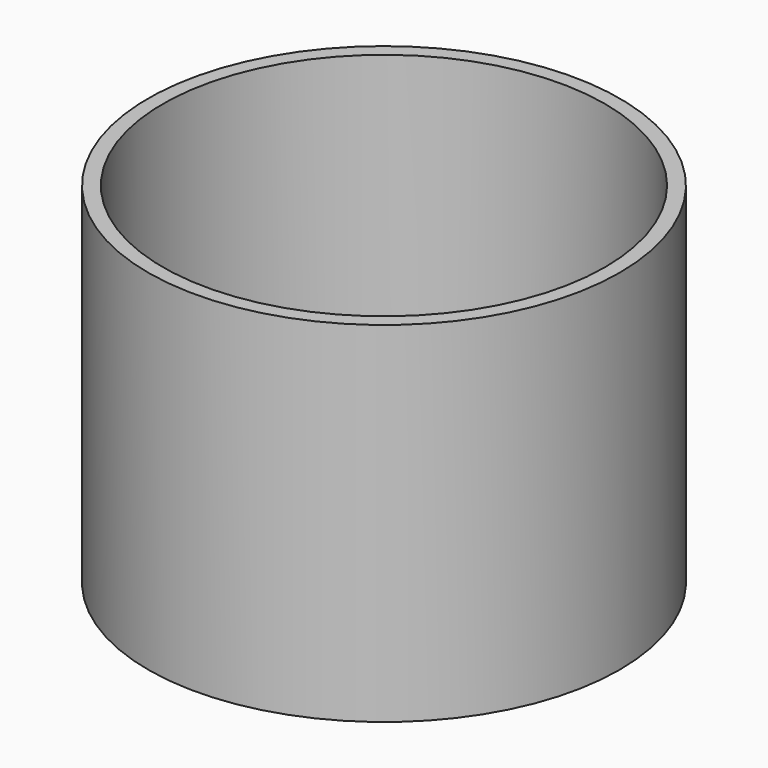
from build123d import *

# Parameters (mm, degrees)
F0_R     = 28
F0_R_2   = 26.25
F1_DEPTH = 41.5
F3_R     = 26.25
F4_DEPTH = 2.5


with BuildPart() as f1:
    # F0 (on Top) → F1 (new body)
    with BuildSketch(Plane.XY):
        Circle(F0_R)
        Circle(F0_R_2, mode=Mode.SUBTRACT)
    extrude(amount=F1_DEPTH)

    # F3 (on offset) → F4 (join)
    with BuildSketch(Plane.XY.offset(3)):
        Circle(F3_R)
    extrude(amount=F4_DEPTH)


solid = f1.part
